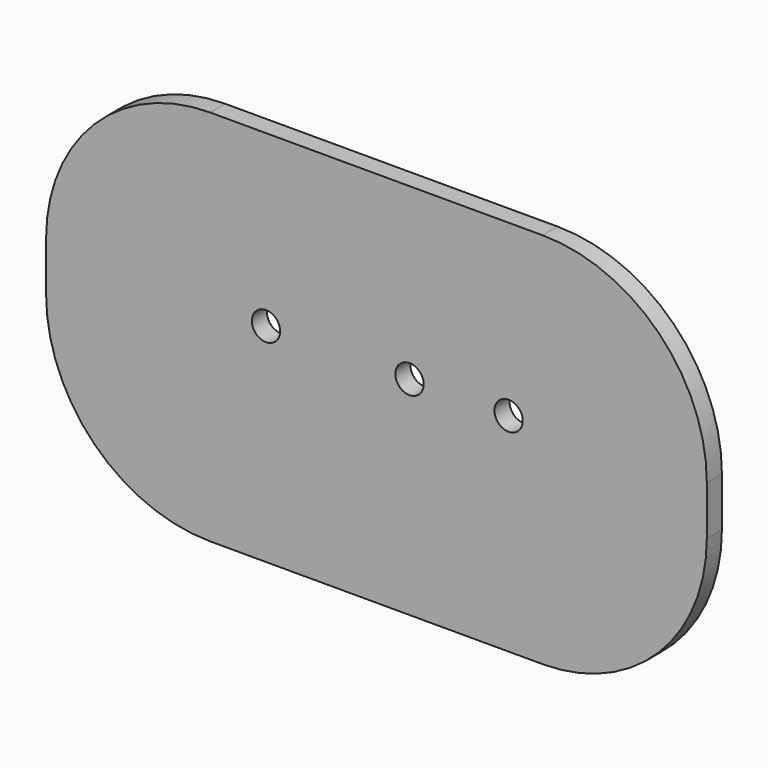
from build123d import *

# Parameters (mm, degrees)
F0_W     = 350
F0_H     = 200
F0_R     = 7.5
F1_DEPTH = 10
F2_R     = 87


with BuildPart() as f1:
    # F0 (on Front) → F1 (new body)
    with BuildSketch(Plane.XZ):
        Rectangle(F0_W, F0_H)
        with Locations((-58.5, 10)):
            Circle(F0_R, mode=Mode.SUBTRACT)
        with Locations((17.5, 10)):
            Circle(F0_R, mode=Mode.SUBTRACT)
        with Locations((70, 10)):
            Circle(F0_R, mode=Mode.SUBTRACT)
    extrude(amount=F1_DEPTH)

    # F2
    f2_edges = [f1.edges().sort_by_distance(p)[0] for p in [
        (175, -5, 100),
        (-175, -5, 100),
        (-175, -5, -100),
        (175, -5, -100),
    ]]
    fillet(f2_edges, radius=F2_R)


solid = f1.part
